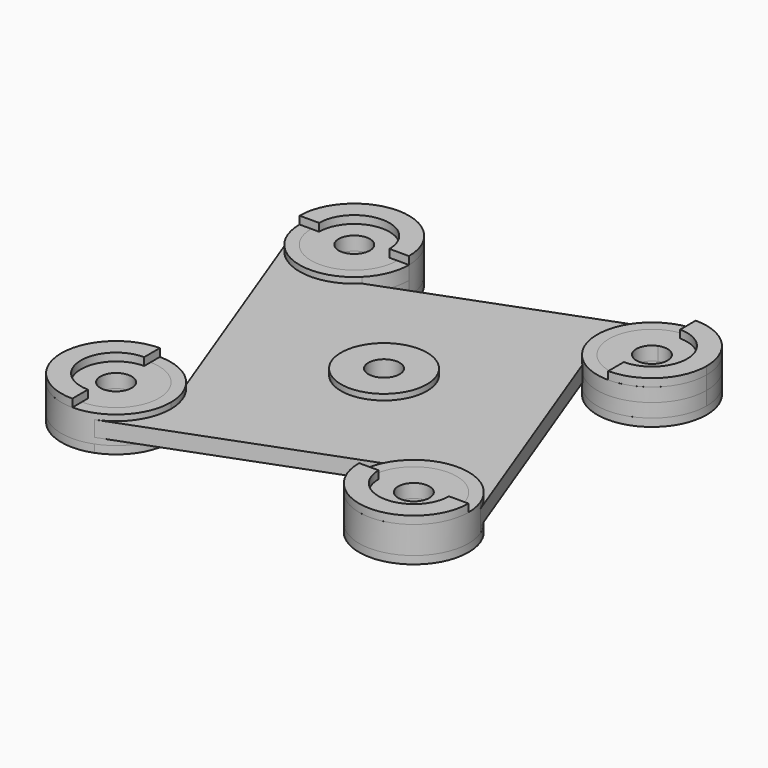
from build123d import *

# Parameters (mm, degrees)
F1_DEPTH = 3.5
F0_R     = 11
F0_R_2   = 4
F2_DEPTH = 2
F3_DEPTH = 3.5
F5_DEPTH = 2
F6_R     = 9
F7_DEPTH = 2
F6_R_2   = 14


with BuildPart() as f1:
    # F0 (on Top) → F1 (new body, symmetric)
    with BuildSketch(Plane.XY):
        with BuildLine():
            ThreePointArc((-10.3002380083, -3.8607119774), (1.961808083, -10.8236458296), (11, 0))
            ThreePointArc((11, 0), (-1.961808083, 10.8236458296), (-10.3002380083, -3.8607119774))
        make_face()
        with BuildLine():
            ThreePointArc((4, 0), (0.7133847574, -3.9358712108), (-3.7455410939, -1.4038952645))
            ThreePointArc((-3.7455410939, -1.4038952645), (-0.7133847574, 3.9358712108), (4, 0))
        make_face(mode=Mode.SUBTRACT)
    extrude(amount=F1_DEPTH, both=True)


with BuildPart() as f1b:
    # F0 (on Top) → F1, piece 2 (new body, symmetric)
    with BuildSketch(Plane.XY):
        with BuildLine():
            ThreePointArc((87.2, 0), (82.4662655644, 9.0406811622), (72.3392880226, 10.3002380083))
            ThreePointArc((72.3392880226, 10.3002380083), (69.9337344356, -9.0406811622), (87.2, 0))
        make_face()
        with BuildLine():
            ThreePointArc((80.2, 0), (73.9213579766, -3.2875204226), (74.7961047355, 3.7455410939))
            ThreePointArc((74.7961047355, 3.7455410939), (78.4786420234, 3.2875204226), (80.2, 0))
        make_face(mode=Mode.SUBTRACT)
    extrude(amount=F1_DEPTH, both=True)


with BuildPart() as f1c:
    # F0 (on Top) → F1, piece 3 (new body, symmetric)
    with BuildSketch(Plane.XY):
        with Locations((38.1, -38.1)):
            Circle(F0_R)
        with Locations((38.1, -38.1)):
            Circle(F0_R_2, mode=Mode.SUBTRACT)
    extrude(amount=F1_DEPTH, both=True)


with BuildPart() as f1d:
    # F0 (on Top) → F1, piece 4 (new body, symmetric)
    with BuildSketch(Plane.XY):
        with BuildLine():
            ThreePointArc((87.2, -76.2), (87.0236458296, -74.238191917), (86.5002380083, -72.3392880226))
            ThreePointArc((86.5002380083, -72.3392880226), (65.3763541704, -78.161808083), (87.2, -76.2))
        make_face()
        with BuildLine():
            ThreePointArc((80.2, -76.2), (72.2641287892, -76.9133847574), (79.9455410939, -74.7961047355))
            ThreePointArc((79.9455410939, -74.7961047355), (80.1358712108, -75.4866152426), (80.2, -76.2))
        make_face(mode=Mode.SUBTRACT)
    extrude(amount=F1_DEPTH, both=True)


with BuildPart() as f1e:
    # F0 (on Top) → F1, piece 5 (new body, symmetric)
    with BuildSketch(Plane.XY):
        with BuildLine():
            ThreePointArc((11, -76.2), (-9.0406811622, -69.9337344356), (3.8607119774, -86.5002380083))
            ThreePointArc((3.8607119774, -86.5002380083), (9.0406811622, -82.4662655644), (11, -76.2))
        make_face()
        with BuildLine():
            ThreePointArc((4, -76.2), (3.2875204226, -78.4786420234), (1.4038952645, -79.9455410939))
            ThreePointArc((1.4038952645, -79.9455410939), (-3.2875204226, -73.9213579766), (4, -76.2))
        make_face(mode=Mode.SUBTRACT)
    extrude(amount=F1_DEPTH, both=True)


with BuildPart() as f2:
    # F0 (on Top) → F2 (new body, symmetric)
    with BuildSketch(Plane.XY):
        with BuildLine():
            ThreePointArc((9.8994949366, -9.8994949366), (-2.9648889483, -13.6824498364), (-13.1093938287, -4.9136334258))
            Line((-13.1093938287, -4.9136334258), (9.8994949366, -66.3005050634))
            ThreePointArc((9.8994949366, -66.3005050634), (12.9343134552, -70.8424319469), (14, -76.2))
            ThreePointArc((14, -76.2), (11.5063214791, -84.175247082), (4.9136334258, -89.3093938287))
            Line((4.9136334258, -89.3093938287), (66.3005050634, -66.3005050634))
            ThreePointArc((66.3005050634, -66.3005050634), (79.1648889483, -62.5175501636), (89.3093938287, -71.2863665742))
            Line((89.3093938287, -71.2863665742), (66.3005050634, -9.8994949366))
            ThreePointArc((66.3005050634, -9.8994949366), (62.5175501636, 2.9648889483), (71.2863665742, 13.1093938287))
            Line((71.2863665742, 13.1093938287), (9.8994949366, -9.8994949366))
        make_face()
        with Locations((38.1, -38.1)):
            Circle(F0_R, mode=Mode.SUBTRACT)
    extrude(amount=F2_DEPTH, both=True)


with BuildPart() as f3:
    # F0 (on Top) → F3 (new body, symmetric)
    with BuildSketch(Plane.XY):
        with BuildLine():
            ThreePointArc((14, -76.2), (12.9343134552, -70.8424319469), (9.8994949366, -66.3005050634))
            ThreePointArc((9.8994949366, -66.3005050634), (-13.6824498364, -73.2351110517), (4.9136334258, -89.3093938287))
            ThreePointArc((4.9136334258, -89.3093938287), (11.5063214791, -84.175247082), (14, -76.2))
        make_face()
        with BuildLine():
            ThreePointArc((11, -76.2), (9.0406811622, -82.4662655644), (3.8607119774, -86.5002380083))
            ThreePointArc((3.8607119774, -86.5002380083), (-9.0406811622, -69.9337344356), (11, -76.2))
        make_face(mode=Mode.SUBTRACT)
    extrude(amount=F3_DEPTH, both=True)


with BuildPart() as f3b:
    # F0 (on Top) → F3, piece 2 (new body, symmetric)
    with BuildSketch(Plane.XY):
        with BuildLine():
            ThreePointArc((89.3093938287, -71.2863665742), (79.1648889483, -62.5175501636), (66.3005050634, -66.3005050634))
            ThreePointArc((66.3005050634, -66.3005050634), (70.8424319469, -89.1343134552), (90.2, -76.2))
            ThreePointArc((90.2, -76.2), (89.9755492377, -73.7031533489), (89.3093938287, -71.2863665742))
        make_face()
        with BuildLine():
            ThreePointArc((87.2, -76.2), (65.3763541704, -78.161808083), (86.5002380083, -72.3392880226))
            ThreePointArc((86.5002380083, -72.3392880226), (87.0236458296, -74.238191917), (87.2, -76.2))
        make_face(mode=Mode.SUBTRACT)
    extrude(amount=F3_DEPTH, both=True)


with BuildPart() as f3c:
    # F0 (on Top) → F3, piece 3 (new body, symmetric)
    with BuildSketch(Plane.XY):
        with BuildLine():
            ThreePointArc((90.2, 0), (84.175247082, 11.5063214791), (71.2863665742, 13.1093938287))
            ThreePointArc((71.2863665742, 13.1093938287), (62.5175501636, 2.9648889483), (66.3005050634, -9.8994949366))
            ThreePointArc((66.3005050634, -9.8994949366), (81.5575680531, -12.9343134552), (90.2, 0))
        make_face()
        with BuildLine():
            ThreePointArc((87.2, 0), (69.9337344356, -9.0406811622), (72.3392880226, 10.3002380083))
            ThreePointArc((72.3392880226, 10.3002380083), (82.4662655644, 9.0406811622), (87.2, 0))
        make_face(mode=Mode.SUBTRACT)
    extrude(amount=F3_DEPTH, both=True)


with BuildPart() as f3d:
    # F0 (on Top) → F3, piece 4 (new body, symmetric)
    with BuildSketch(Plane.XY):
        with BuildLine():
            ThreePointArc((14, 0), (-2.4968466511, 13.7755492377), (-13.1093938287, -4.9136334258))
            ThreePointArc((-13.1093938287, -4.9136334258), (-2.9648889483, -13.6824498364), (9.8994949366, -9.8994949366))
            ThreePointArc((9.8994949366, -9.8994949366), (12.9343134552, -5.3575680531), (14, 0))
        make_face()
        with BuildLine():
            ThreePointArc((-10.3002380083, -3.8607119774), (-1.961808083, 10.8236458296), (11, 0))
            ThreePointArc((11, 0), (1.961808083, -10.8236458296), (-10.3002380083, -3.8607119774))
        make_face(mode=Mode.SUBTRACT)
    extrude(amount=F3_DEPTH, both=True)


with BuildPart() as f5:
    # F4 (on face) → F5 (new body)
    with BuildSketch(Plane.XY.offset(3.5)):
        with BuildLine():
            Line((11, 0), (14, 0))
            ThreePointArc((14, 0), (0, 14), (-14, 0))
            Line((-14, 0), (-11, 0))
            ThreePointArc((-11, 0), (0, 11), (11, 0))
        make_face()
        with BuildLine():
            Line((9, 0), (11, 0))
            ThreePointArc((11, 0), (0, 11), (-11, 0))
            Line((-11, 0), (-9, 0))
            ThreePointArc((-9, 0), (0, 9), (9, 0))
        make_face()
    extrude(amount=F5_DEPTH)


with BuildPart() as f5b:
    # F4 (on face) → F5, piece 2 (new body)
    with BuildSketch(Plane.XY.offset(3.5)):
        with BuildLine():
            ThreePointArc((87.2, 0), (83.9781745931, 7.7781745931), (76.2, 11))
            Line((76.2, 11), (76.2, 9))
            ThreePointArc((76.2, 9), (82.5639610307, 6.3639610307), (85.2, 0))
            ThreePointArc((85.2, 0), (82.5639610307, -6.3639610307), (76.2, -9))
            Line((76.2, -9), (76.2, -11))
            ThreePointArc((76.2, -11), (83.9781745931, -7.7781745931), (87.2, 0))
        make_face()
        with BuildLine():
            ThreePointArc((76.2, -14), (86.0994949366, -9.8994949366), (90.2, 0))
            ThreePointArc((90.2, 0), (86.0994949366, 9.8994949366), (76.2, 14))
            Line((76.2, 14), (76.2, 11))
            ThreePointArc((76.2, 11), (83.9781745931, 7.7781745931), (87.2, 0))
            ThreePointArc((87.2, 0), (83.9781745931, -7.7781745931), (76.2, -11))
            Line((76.2, -11), (76.2, -14))
        make_face()
    extrude(amount=F5_DEPTH)


with BuildPart() as f5c:
    # F4 (on face) → F5, piece 3 (new body)
    with BuildSketch(Plane.XY.offset(3.5)):
        with BuildLine():
            ThreePointArc((65.2, -76.2), (76.2, -87.2), (87.2, -76.2))
            Line((87.2, -76.2), (85.2, -76.2))
            ThreePointArc((85.2, -76.2), (76.2, -85.2), (67.2, -76.2))
            Line((67.2, -76.2), (65.2, -76.2))
        make_face()
        with BuildLine():
            ThreePointArc((62.2, -76.2), (76.2, -90.2), (90.2, -76.2))
            Line((90.2, -76.2), (87.2, -76.2))
            ThreePointArc((87.2, -76.2), (76.2, -87.2), (65.2, -76.2))
            Line((65.2, -76.2), (62.2, -76.2))
        make_face()
    extrude(amount=F5_DEPTH)


with BuildPart() as f5d:
    # F4 (on face) → F5, piece 4 (new body)
    with BuildSketch(Plane.XY.offset(3.5)):
        with BuildLine():
            Line((0, -67.2), (0, -65.2))
            ThreePointArc((0, -65.2), (-11, -76.2), (0, -87.2))
            Line((0, -87.2), (0, -85.2))
            ThreePointArc((0, -85.2), (-9, -76.2), (0, -67.2))
        make_face()
        with BuildLine():
            Line((0, -65.2), (0, -62.2))
            ThreePointArc((0, -62.2), (-14, -76.2), (0, -90.2))
            Line((0, -90.2), (0, -87.2))
            ThreePointArc((0, -87.2), (-11, -76.2), (0, -65.2))
        make_face()
    extrude(amount=F5_DEPTH)


with BuildPart() as f7:
    # F6 (on face) → F7 (new body)
    with BuildSketch(Plane(origin=(0, 0, -3.5), x_dir=(1, 0, 0), z_dir=(0, 0, -1))):
        with BuildLine():
            ThreePointArc((9.8994949366, 66.3005050634), (12.9343134552, 70.8424319469), (14, 76.2))
            ThreePointArc((14, 76.2), (11.5063214791, 84.175247082), (4.9136334258, 89.3093938287))
            ThreePointArc((4.9136334258, 89.3093938287), (-13.6824498364, 73.2351110517), (9.8994949366, 66.3005050634))
        make_face()
        with BuildLine():
            ThreePointArc((3.8607119774, 86.5002380083), (9.0406811622, 82.4662655644), (11, 76.2))
            ThreePointArc((11, 76.2), (-9.0406811622, 69.9337344356), (3.8607119774, 86.5002380083))
        make_face(mode=Mode.SUBTRACT)
        with BuildLine():
            ThreePointArc((3.8607119774, 86.5002380083), (-9.0406811622, 69.9337344356), (11, 76.2))
            ThreePointArc((11, 76.2), (9.0406811622, 82.4662655644), (3.8607119774, 86.5002380083))
        make_face()
        with Locations((0, 76.2)):
            Circle(F6_R, mode=Mode.SUBTRACT)
    extrude(amount=F7_DEPTH)


with BuildPart() as f7b:
    # F6 (on face) → F7, piece 2 (new body)
    with BuildSketch(Plane(origin=(0, 0, -3.5), x_dir=(1, 0, 0), z_dir=(0, 0, -1))):
        with Locations((76.2, 76.2)):
            Circle(F6_R_2)
        with Locations((76.2, 76.2)):
            Circle(F6_R, mode=Mode.SUBTRACT)
    extrude(amount=F7_DEPTH)


with BuildPart() as f7c:
    # F6 (on face) → F7, piece 3 (new body)
    with BuildSketch(Plane(origin=(0, 0, -3.5), x_dir=(1, 0, 0), z_dir=(0, 0, -1))):
        with Locations((76.2, 0)):
            Circle(F6_R_2)
        with Locations((76.2, 0)):
            Circle(F6_R, mode=Mode.SUBTRACT)
    extrude(amount=F7_DEPTH)


with BuildPart() as f7d:
    # F6 (on face) → F7, piece 4 (new body)
    with BuildSketch(Plane(origin=(0, 0, -3.5), x_dir=(1, 0, 0), z_dir=(0, 0, -1))):
        Circle(F6_R_2)
        Circle(F6_R, mode=Mode.SUBTRACT)
    extrude(amount=F7_DEPTH)


solid = Compound([f1.part, f1b.part, f1c.part, f1d.part, f1e.part, f2.part, f3.part, f3b.part, f3c.part, f3d.part, f5.part, f5b.part, f5c.part, f5d.part, f7.part, f7b.part, f7c.part, f7d.part])
